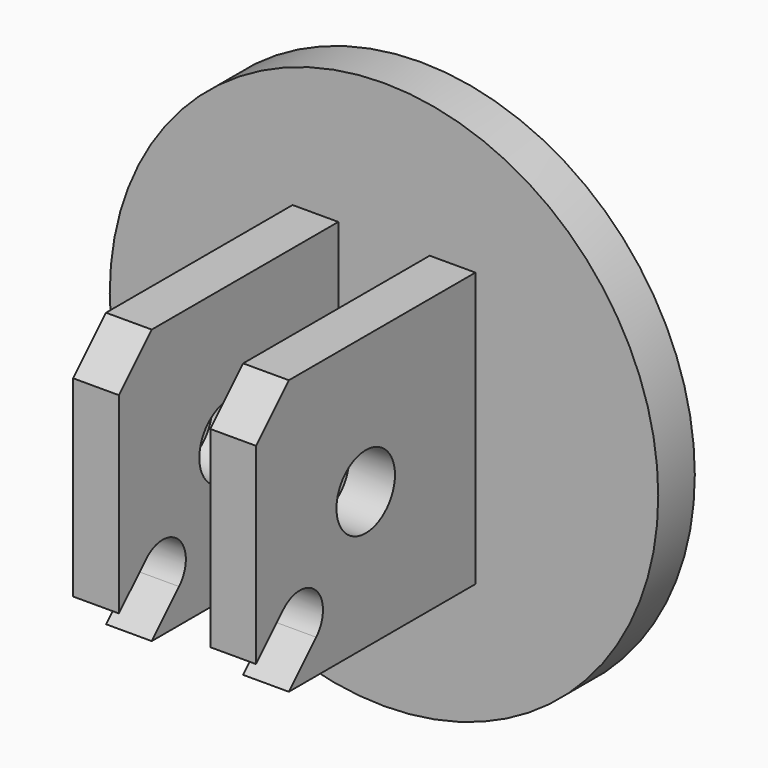
from build123d import *

# Parameters (mm, degrees)
SKETCH001_R  = 30
PAD_DEPTH    = 5
SKETCH_R     = 4
PAD001_DEPTH = 10
SKETCH002_W  = 10
SKETCH002_H  = 30
POCKET_DEPTH = 15


with BuildPart() as part:
    # Sketch001 → Pad (new body)
    with BuildSketch(Plane.XZ):
        Circle(SKETCH001_R)
    extrude(amount=PAD_DEPTH)

    # Sketch → Pad001 (join, symmetric)
    with BuildSketch(Plane.YZ):
        with BuildLine():
            ThreePointArc((-26.774038, -11.264166), (-26.774038, -6.774038), (-31.264166, -6.774038))
            Line((-31.264166, -6.774038), (-35, -10.509872))
            Line((-35, -10.509872), (-35, 10.509872))
            Line((-35, 10.509872), (-30.509872, 15))
            Line((-30.509872, 15), (-0.1, 15))
            Line((-0.1, 15), (-0.1, -15))
            Line((-0.1, -15), (-30.509872, -15))
            Line((-30.509872, -15), (-26.774038, -11.264166))
        make_face()
        with Locations((-20, 0)):
            Circle(SKETCH_R, mode=Mode.SUBTRACT)
    extrude(amount=PAD001_DEPTH, both=True)

    # Sketch002 → Pocket (cut, symmetric)
    with BuildSketch(Plane.XY):
        with Locations((0, -20)):
            Rectangle(SKETCH002_W, SKETCH002_H)
    extrude(amount=POCKET_DEPTH, both=True, mode=Mode.SUBTRACT)


solid = part.part
